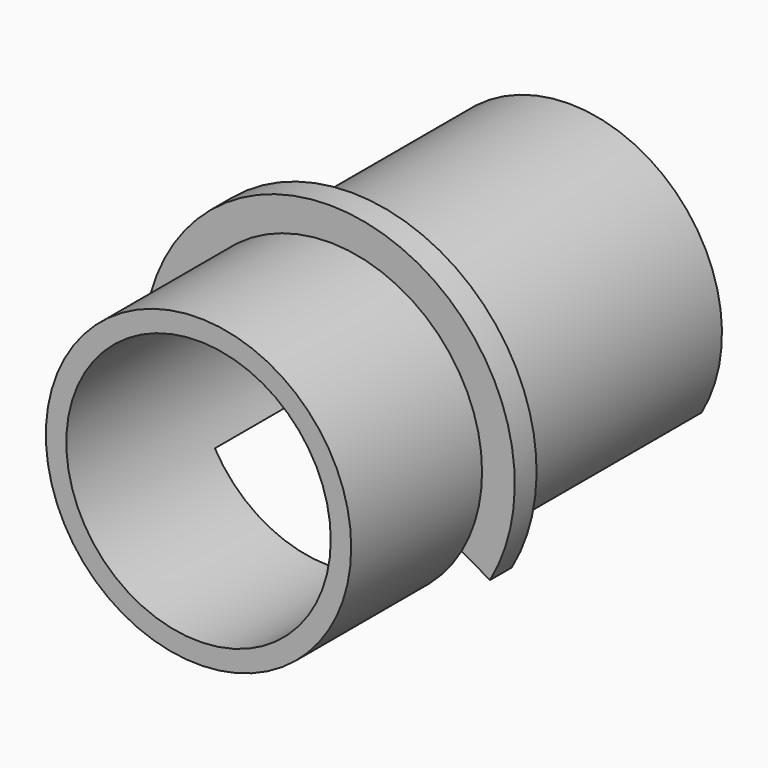
from build123d import *

# Parameters (mm, degrees)
F0_R     = 35.56
F0_R_2   = 30.7975
F1_DEPTH = 63.5
F2_R     = 43.18
F2_R_2   = 35.56
F2_R_3   = 30.7975
F3_DEPTH = 6.35
F4_R     = 35.56
F4_R_2   = 30.7975
F5_DEPTH = 38.1
F7_DEPTH = 63.5
F9_DEPTH = 6.35


with BuildPart() as f1:
    # F0 (on Front) → F1 (new body)
    with BuildSketch(Plane.XZ):
        Circle(F0_R)
        Circle(F0_R_2, mode=Mode.SUBTRACT)
    extrude(amount=F1_DEPTH)

    # F2 (on face) → F3 (join)
    with BuildSketch(Plane.XZ.offset(63.5)):
        Circle(F2_R)
        Circle(F2_R_2, mode=Mode.SUBTRACT)
        Circle(F2_R_2)
        Circle(F2_R_3, mode=Mode.SUBTRACT)
    extrude(amount=F3_DEPTH)

    # F4 (on face) → F5 (join)
    with BuildSketch(Plane.XZ.offset(69.85)):
        Circle(F4_R)
        Circle(F4_R_2, mode=Mode.SUBTRACT)
    extrude(amount=F5_DEPTH)

    # F6 (on face) → F7 (cut, through all)
    with BuildSketch(Plane(origin=(0, 0, 0), x_dir=(-1, 0, 0), z_dir=(0, 1, 0))):
        with BuildLine():
            Line((26.6714173731, -15.39875), (0, 0))
            Line((0, 0), (-26.6714173731, -15.39875))
            ThreePointArc((-26.6714173731, -15.39875), (0, -30.7975), (26.6714173731, -15.39875))
        make_face()
        with BuildLine():
            ThreePointArc((26.6714173731, -15.39875), (0, -30.7975), (-26.6714173731, -15.39875))
            Line((-26.6714173731, -15.39875), (-30.7958633586, -17.78))
            ThreePointArc((-30.7958633586, -17.78), (0, -35.56), (30.7958633586, -17.78))
            Line((30.7958633586, -17.78), (26.6714173731, -15.39875))
        make_face()
        with BuildLine():
            ThreePointArc((30.7958633586, -17.78), (0, -35.56), (-30.7958633586, -17.78))
            Line((-30.7958633586, -17.78), (-66.8170764648, -38.5768570834))
            Line((-66.8170764648, -38.5768570834), (66.8170764648, -38.5768570834))
            Line((66.8170764648, -38.5768570834), (30.7958633586, -17.78))
        make_face()
    extrude(amount=-F7_DEPTH, mode=Mode.SUBTRACT)

    # F8 (on face) → F9 (cut, through all)
    with BuildSketch(Plane(origin=(0, -63.5, 0), x_dir=(-1, 0, 0), z_dir=(0, 1, 0))):
        with BuildLine():
            Line((30.7958633586, -17.78), (26.6714173731, -15.39875))
            ThreePointArc((26.6714173731, -15.39875), (0, -30.7975), (-26.6714173731, -15.39875))
            Line((-26.6714173731, -15.39875), (-30.7958633586, -17.78))
            Line((-30.7958633586, -17.78), (-37.3949769354, -21.59))
            ThreePointArc((-37.3949769354, -21.59), (0, -43.18), (37.3949769354, -21.59))
            Line((37.3949769354, -21.59), (30.7958633586, -17.78))
        make_face()
    extrude(amount=-F9_DEPTH, mode=Mode.SUBTRACT)


solid = f1.part
